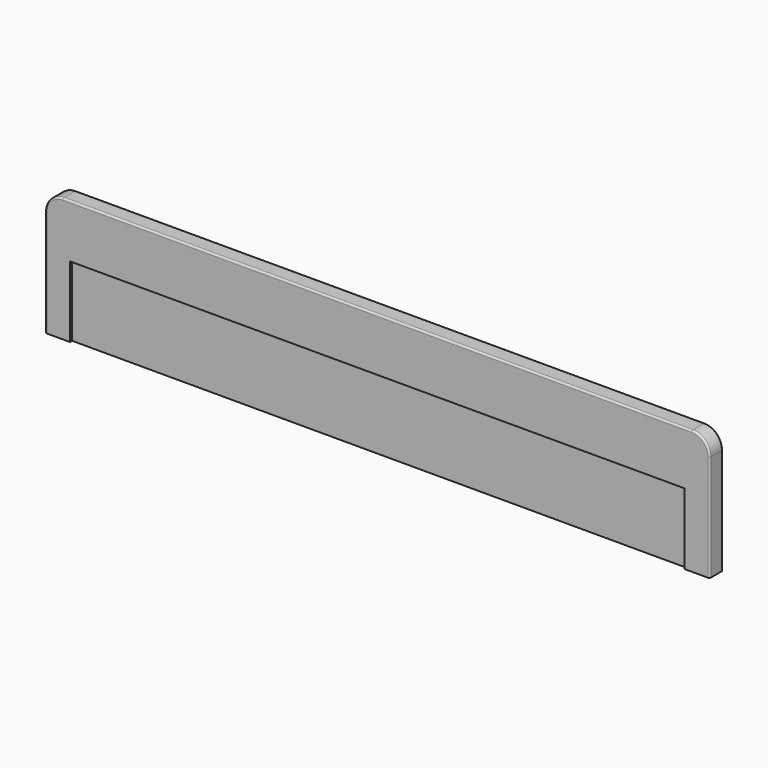
from build123d import *

# Parameters (mm, degrees)
F1_DEPTH = 9
F0_W     = 173
F0_H     = 40
F2_DEPTH = 7.5
F3_R     = 10
F4_R     = 1
F5_R     = 0.5


with BuildPart() as f1:
    # F0 (on Front) → F1 (new body)
    with BuildSketch(Plane.XZ):
        Polygon((137.2830025838, 31.1808919907), (-49.7169974162, 31.1808919907), (-49.7169974162, -38.8191080093), (-35.7169974162, -38.8191080093), (-35.7169974162, 1.1808919907), (137.2830025838, 1.1808919907), align=None)
    extrude(amount=F1_DEPTH)

    # F0 (on Front) → F2 (join)
    with BuildSketch(Plane.XZ):
        Polygon((137.2830025838, 31.1808919907), (-49.7169974162, 31.1808919907), (-49.7169974162, -38.8191080093), (-35.7169974162, -38.8191080093), (-35.7169974162, 1.1808919907), (137.2830025838, 1.1808919907), align=None)
        with Locations((50.7830025838, -18.8191080093)):
            Rectangle(F0_W, F0_H)
    extrude(amount=F2_DEPTH)

    # F3
    f3_edges = [f1.edges().sort_by_distance(p)[0] for p in [
        (-49.716997, -4.5, 31.180892),
    ]]
    fillet(f3_edges, radius=F3_R)

    # F4
    f4_edges = [f1.edges().sort_by_distance(p)[0] for p in [
        (48.783003, -9, 31.180892),
        (-46.788065, -9, 28.25196),
        (-49.716997, -9, -8.819108),
    ]]
    fillet(f4_edges, radius=F4_R)

    # F5
    f5_edges = [f1.edges().sort_by_distance(p)[0] for p in [
        (48.783003, 0, 31.180892),
        (-46.788065, 0, 28.25196),
        (-49.716997, 0, -8.819108),
    ]]
    fillet(f5_edges, radius=F5_R)

    # F6: F1 across face


with BuildPart() as f1_1:
    add(f1.part)
    add(f1.part.mirror(Plane(origin=(137.2830025838, -4.1038796524, -2.2558019442), x_dir=(0, 1, 0), z_dir=(1, 0, 0))))


solid = f1_1.part
